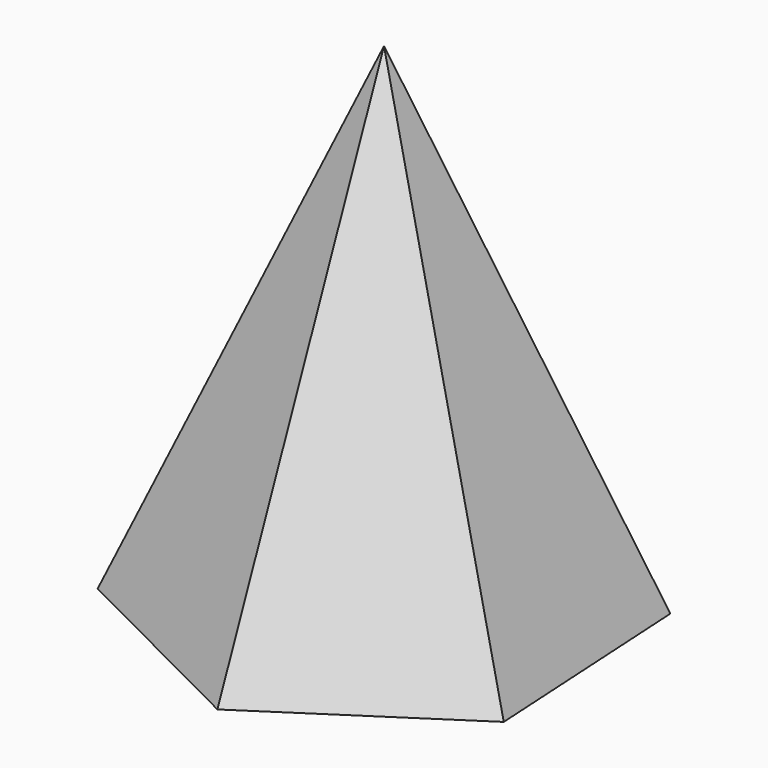
from build123d import *


with BuildPart() as f3:
    # F0 (on Top) → F3 section 0
    with BuildSketch(Plane.XY, mode=Mode.PRIVATE) as f3_s0:
        Polygon((61.573545, -31.014514), (57.646129, 37.816998), (-3.927416, 68.831511), (-61.573545, 31.014514), (-57.646129, -37.816998), (3.927416, -68.831511), align=None)
    loft([f3_s0.sketch, Vertex(0, 0, 150)])


solid = f3.part
